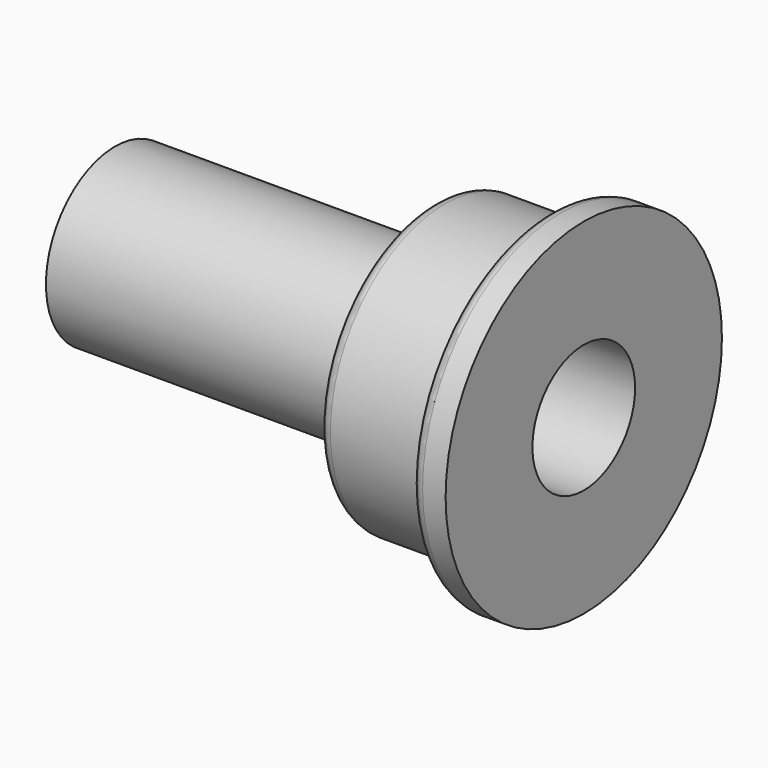
from build123d import *

# Parameters (mm, degrees)
F2_R = 1
F3_R = 0.5


with BuildPart() as f1:
    # F0 (on Top) → F1 (revolve)
    with BuildSketch(Plane.XY):
        Polygon((12.8682, 3.5), (0, 3.5), (0, 2.6), (1.560832, 2.6), (17.439168, 2.6), (19, 2.6), (19, 7), (17.5682, 7), (17.5682, 5.8), (12.8682, 5.8), align=None)
    revolve(axis=Axis((8.987734, 0, 0), (1, 0, 0)))

    # F2
    f2_edges = [f1.edges().sort_by_distance(p)[0] for p in [
        (12.8682, -3.5, 0),
    ]]
    fillet(f2_edges, radius=F2_R)

    # F3
    f3_edges = [f1.edges().sort_by_distance(p)[0] for p in [
        (17.5682, -7, 0),
        (12.8682, -5.8, 0),
    ]]
    fillet(f3_edges, radius=F3_R)


solid = f1.part
